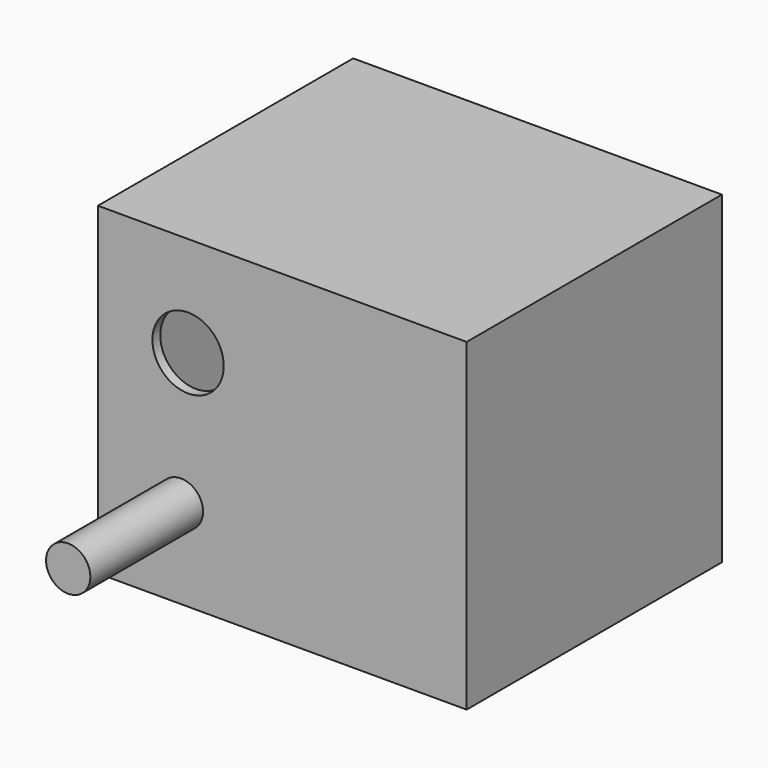
from build123d import *

# Parameters (mm, degrees)
F0_W     = 105.022209
F0_H     = 90.88391
F1_DEPTH = 92.202
F2_T     = -2.54
F3_W     = 99.942209
F3_H     = 87.122
F4_DEPTH = 2.794
F6_D     = 20.32
F6_DEPTH = 20.32
F7_R     = 6.310092
F8_DEPTH = 40.132


with BuildPart() as f1:
    # F0 (on Top) → F1 (new body)
    with BuildSketch(Plane.XY):
        with Locations((-23.505336, -22.022091)):
            Rectangle(F0_W, F0_H)
    extrude(amount=F1_DEPTH)

    # F2
    f2_openings = [f1.faces().sort_by_distance(p)[0] for p in [
        (-23.505337, -67.464046, 46.101),
    ]]
    offset(amount=F2_T, openings=f2_openings)

    # F3 (on face) → F4 (join)
    with BuildSketch(Plane.XZ.offset(67.464046)):
        with Locations((-23.505336, 46.101)):
            Rectangle(F3_W, F3_H)
    extrude(amount=-F4_DEPTH)

    # F6
    with Locations(Plane.XZ.offset(67.464046)):
        with Locations((-50.33106, 63.634276)):
            Hole(F6_D / 2, depth=F6_DEPTH)

    # F7 (on face) → F8 (join)
    with BuildSketch(Plane.XZ.offset(67.464046)):
        with Locations((-52.374396, 25.210666)):
            Circle(F7_R)
    extrude(amount=F8_DEPTH)


solid = f1.part
